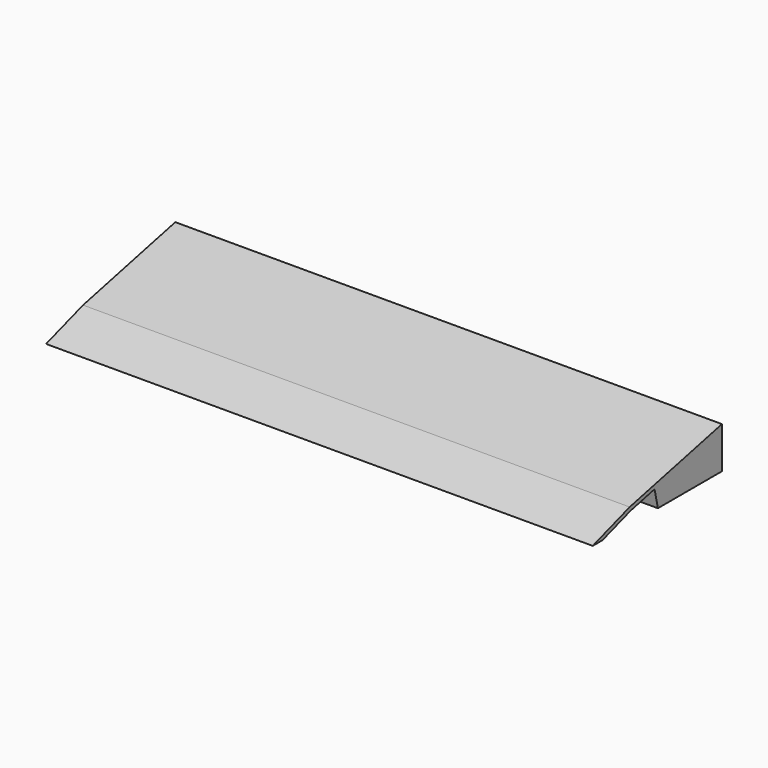
from build123d import *

# Parameters (mm, degrees)
F1_DEPTH = 450.85


with BuildPart() as f1:
    # F0 (on Right) → F1 (new body)
    with BuildSketch(Plane.YZ):
        Polygon((133.195122, 31.0342), (63.725202, 15.262039), (67.190232, 0), (133.195122, 0), align=None)
        Polygon((38.1, 12.7), (0, 0), (10.040232, 0), (38.95556, 9.638443), (63.725202, 15.262039), (133.195122, 31.0342), (133.195122, 34.29), align=None)
    extrude(amount=-F1_DEPTH)


solid = f1.part
